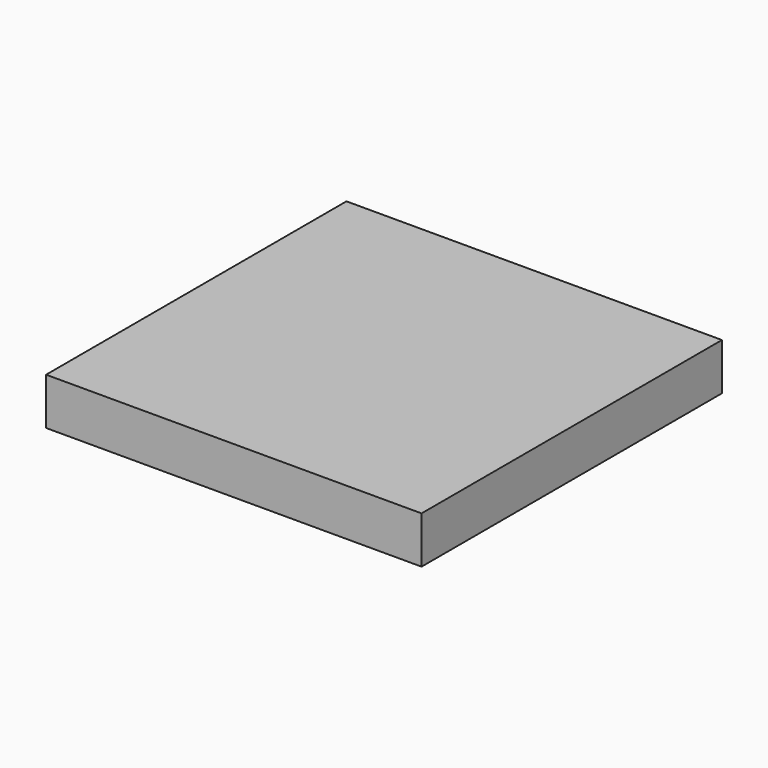
from build123d import *

# Parameters (mm, degrees)
F0_W     = 101.6
F0_H     = 101.6
F1_DEPTH = 12.7
F2_R     = 16.51
F3_DEPTH = 3.81


with BuildPart() as f1:
    # F0 (on Top) → F1 (new body)
    with BuildSketch(Plane.XY):
        Rectangle(F0_W, F0_H)
    extrude(amount=F1_DEPTH)

    # F2 (on face) → F3 (cut)
    with BuildSketch(Plane(origin=(0, 0, 0), x_dir=(1, 0, 0), z_dir=(0, 0, -1))):
        with Locations((-30.48, 0)):
            Circle(F2_R)
        with Locations((0, 30.48)):
            Circle(F2_R)
        with Locations((30.48, 0)):
            Circle(F2_R)
        with Locations((0, -30.48)):
            Circle(F2_R)
    extrude(amount=-F3_DEPTH, mode=Mode.SUBTRACT)


solid = f1.part
